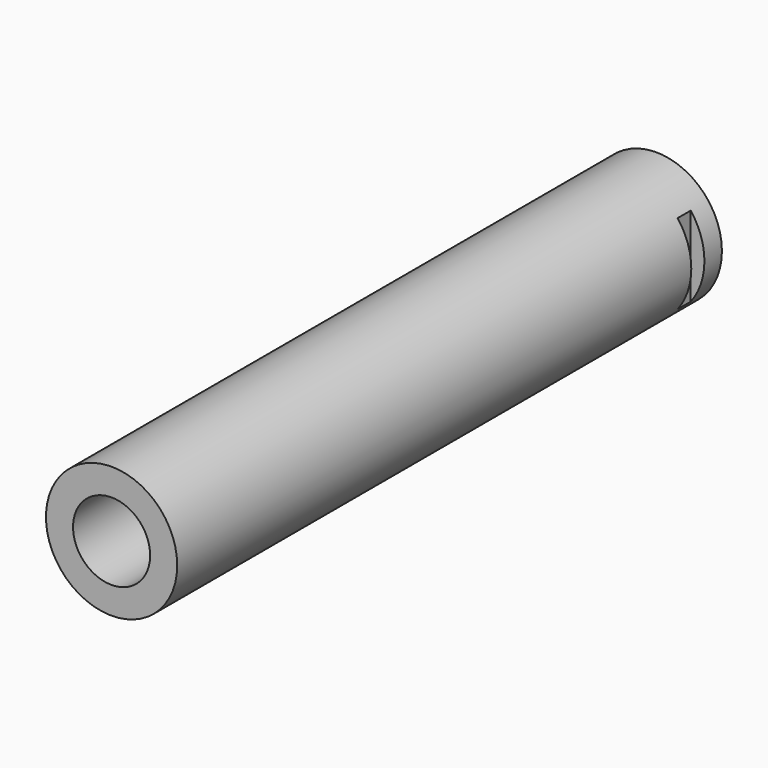
from build123d import *

# Parameters (mm, degrees)
F0_R     = 12
F0_R_2   = 7.05
F1_DEPTH = 124.5
F2_W     = 3
F2_H     = 24
F3_DEPTH = 2.5


with BuildPart() as f1:
    # F0 (on Front) → F1 (new body)
    with BuildSketch(Plane.XZ):
        with Locations((-12, -12)):
            Circle(F0_R)
        with Locations((-12, -12)):
            Circle(F0_R_2, mode=Mode.SUBTRACT)
    extrude(amount=F1_DEPTH)

    # F2 (on Right) → F3 (cut)
    with BuildSketch(Plane.YZ):
        with Locations((-5.5, -12)):
            Rectangle(F2_W, F2_H)
    extrude(amount=-F3_DEPTH, mode=Mode.SUBTRACT)


solid = f1.part
